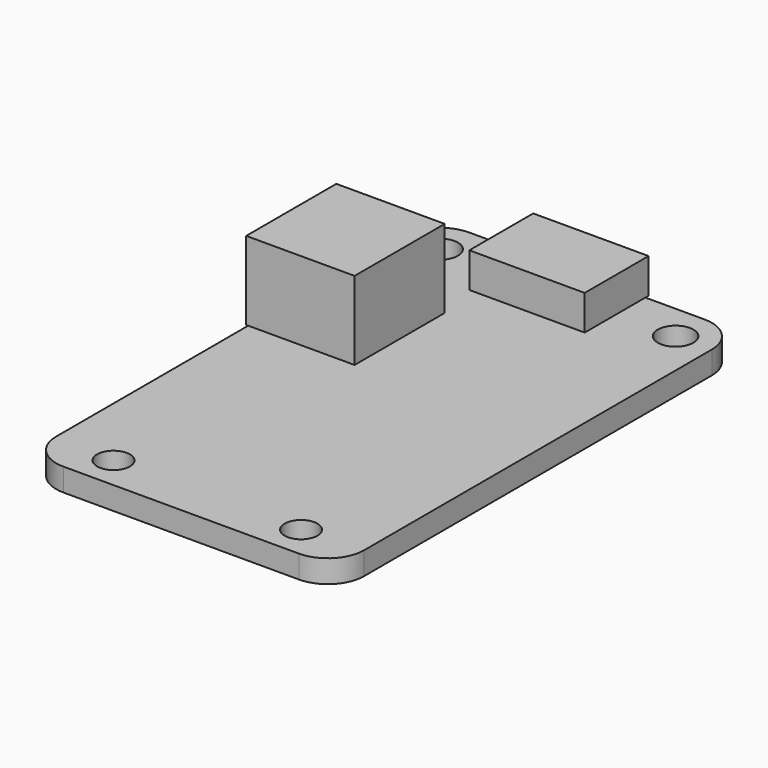
from build123d import *

# Parameters (mm, degrees)
F0_R     = 1.15
F0_R_2   = 1.25
F1_DEPTH = 1.6
F2_W     = 7.6
F2_H     = 7.9
F3_DEPTH = 5.5
F4_W     = 8.09
F4_H     = 0.28
F4_H_2   = 5.32
F5_DEPTH = 2.45


with BuildPart() as f1:
    # F0 (on Top) → F1 (new body)
    with BuildSketch(Plane.XY):
        with BuildLine():
            ThreePointArc((10.795, 15.24), (10.051051, 17.036051), (8.255, 17.78))
            Line((8.255, 17.78), (-8.255, 17.78))
            ThreePointArc((-8.255, 17.78), (-10.051051, 17.036051), (-10.795, 15.24))
            Line((-10.795, 15.24), (-10.795, -15.24))
            ThreePointArc((-10.795, -15.24), (-10.051051, -17.036051), (-8.255, -17.78))
            Line((-8.255, -17.78), (8.255, -17.78))
            ThreePointArc((8.255, -17.78), (10.051051, -17.036051), (10.795, -15.24))
            Line((10.795, -15.24), (10.795, 15.24))
        make_face()
        with Locations((-6.575, -15.49)):
            Circle(F0_R, mode=Mode.SUBTRACT)
        with Locations((6.575, -15.49)):
            Circle(F0_R, mode=Mode.SUBTRACT)
        with Locations((-8.255, 15.24)):
            Circle(F0_R_2, mode=Mode.SUBTRACT)
        with Locations((8.255, 15.24)):
            Circle(F0_R_2, mode=Mode.SUBTRACT)
    extrude(amount=-F1_DEPTH)

    # F2 (on Top) → F3 (join)
    with BuildSketch(Plane.XY):
        with Locations((-7.135, 5.54)):
            Rectangle(F2_W, F2_H)
    extrude(amount=F3_DEPTH)

    # F4 (on face) → F5 (join)
    with BuildSketch(Plane.XY):
        with Locations((0.06, 17.92)):
            Rectangle(F4_W, F4_H)
        with Locations((0.06, 15.12)):
            Rectangle(F4_W, F4_H_2)
    extrude(amount=F5_DEPTH)


solid = f1.part
